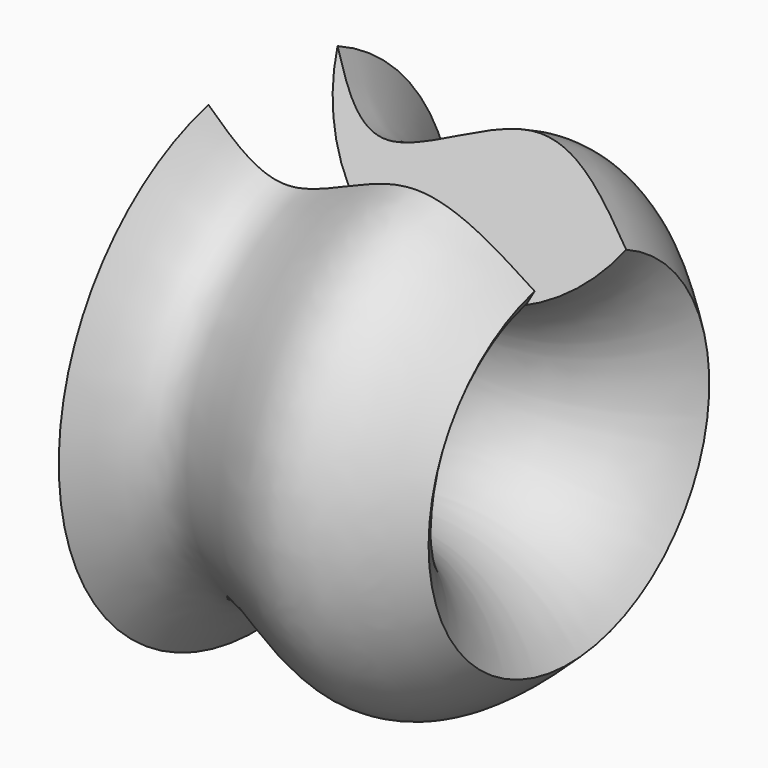
from build123d import *

# Parameters (mm, degrees)
F3_DEPTH = 127


with BuildPart() as f1:
    # F0 (on Front) → F1 (revolve)
    with BuildSketch(Plane.XZ):
        with BuildLine():
            add(Edge.make_bspline(
                [(0, 52.3522235453), (3.9010110216, 46.493686386), (12.8225223937, 33.0953633355), (43.5644122855, 58.4534461397), (58.6801493129, 44.1006173271), (66.0400018096, 37.1122248471)],
                knots=[0, 0, 0, 0, 0.2850438094, 0.6518878243, 1, 1, 1, 1], degree=3))
            ThreePointArc((0, 52.3522235453), (27.4335254153, 20.5241610104), (66.0400018096, 37.1122248471))
        make_face()
    revolve(axis=Axis((38.1000004709, 0, 0), (1, 0, 0)))

    # F2 (on Right) → F3 (cut)
    with BuildSketch(Plane.YZ):
        with BuildLine():
            Line((-12.7872510157, 50.7665393896), (0, 0))
            Line((0, 0), (21.3639345451, 47.7947445949))
            ThreePointArc((21.3639345451, 47.7947445949), (4.5384761943, 52.1551296036), (-12.7872510157, 50.7665393896))
        make_face()
    extrude(amount=F3_DEPTH, mode=Mode.SUBTRACT)


solid = f1.part
